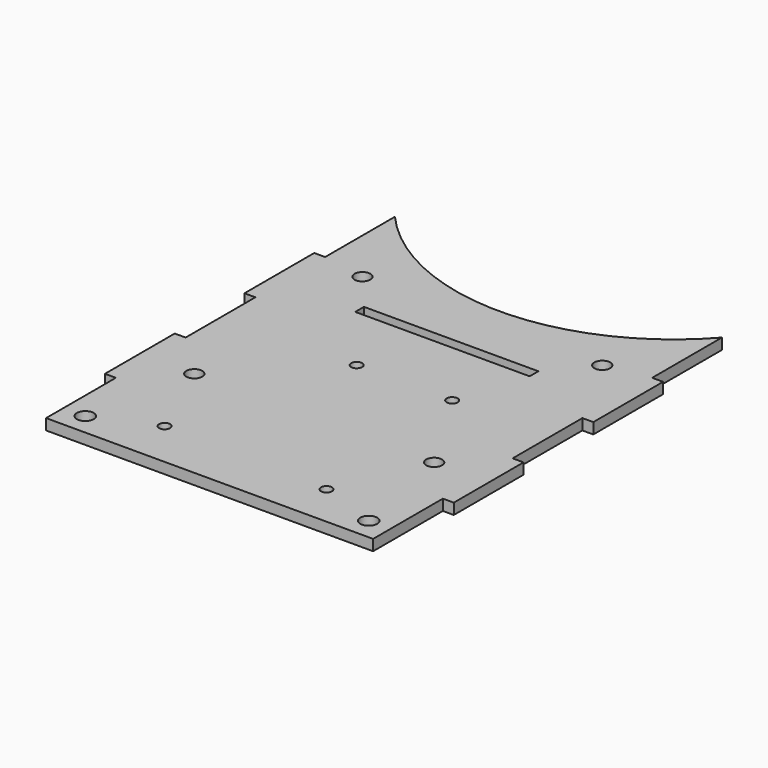
from build123d import *

# Parameters (mm, degrees)
F0_R     = 2.46
F0_R_2   = 1.6
F0_R_3   = 2.3114
F0_W     = 50.8
F0_H     = 3.175
F1_DEPTH = 3.175


with BuildPart() as f1:
    # F0 (on Top) → F1 (new body)
    with BuildSketch(Plane.XY):
        with BuildLine():
            Line((-47.625, -63.5), (47.625, -63.5))
            Line((47.625, -63.5), (47.625, -38.1))
            Line((47.625, -38.1), (50.8, -38.1))
            Line((50.8, -38.1), (50.8, -12.7))
            Line((50.8, -12.7), (47.625, -12.7))
            Line((47.625, -12.7), (47.625, 12.7))
            Line((47.625, 12.7), (50.8, 12.7))
            Line((50.8, 12.7), (50.8, 38.1))
            Line((50.8, 38.1), (47.625, 38.1))
            Line((47.625, 38.1), (47.625, 63.5))
            ThreePointArc((47.625, 63.5), (0, 42.001302), (-47.625, 63.5))
            Line((-47.625, 63.5), (-47.625, 38.1))
            Line((-47.625, 38.1), (-50.8, 38.1))
            Line((-50.8, 38.1), (-50.8, 12.7))
            Line((-50.8, 12.7), (-47.625, 12.7))
            Line((-47.625, 12.7), (-47.625, -12.7))
            Line((-47.625, -12.7), (-50.8, -12.7))
            Line((-50.8, -12.7), (-50.8, -38.1))
            Line((-50.8, -38.1), (-47.625, -38.1))
            Line((-47.625, -38.1), (-47.625, -63.5))
        make_face()
        with Locations((-41.275, -57.15)):
            Circle(F0_R, mode=Mode.SUBTRACT)
        with Locations((-24.1, -49.7586)):
            Circle(F0_R_2, mode=Mode.SUBTRACT)
        with Locations((-34.925, -25.4)):
            Circle(F0_R_3, mode=Mode.SUBTRACT)
        with Locations((24.1, -51.054)):
            Circle(F0_R_2, mode=Mode.SUBTRACT)
        with Locations((41.275, -57.15)):
            Circle(F0_R, mode=Mode.SUBTRACT)
        with Locations((34.925, -25.4)):
            Circle(F0_R_3, mode=Mode.SUBTRACT)
        with Locations((-8.763, 1.016)):
            Circle(F0_R_2, mode=Mode.SUBTRACT)
        with Locations((0, 22.86)):
            Rectangle(F0_W, F0_H, mode=Mode.SUBTRACT)
        with Locations((-34.925, 35.814)):
            Circle(F0_R_3, mode=Mode.SUBTRACT)
        with Locations((19.05, 1.016)):
            Circle(F0_R_2, mode=Mode.SUBTRACT)
        with Locations((34.925, 35.814)):
            Circle(F0_R_3, mode=Mode.SUBTRACT)
    extrude(amount=F1_DEPTH)


solid = f1.part
